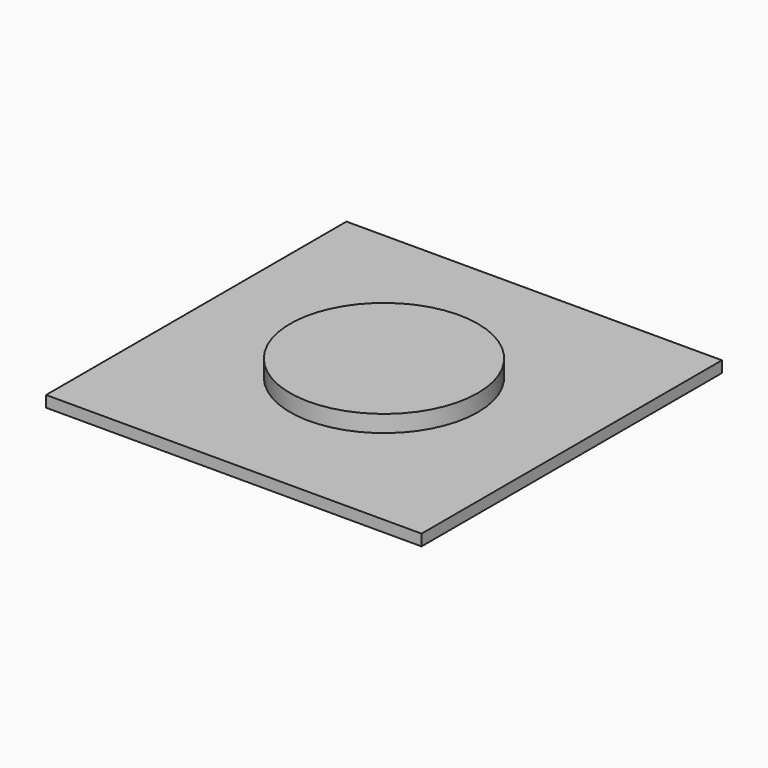
from build123d import *

# Parameters (mm, degrees)
F0_R     = 25
F1_DEPTH = 4.5
F2_R     = 19
F3_DEPTH = 4.5
F4_R     = 12.5
F5_DEPTH = 4.5
F7_START = 1
F6_W     = 100
F6_H     = 100
F7_DEPTH = 3
F9_START = 4
F8_R     = 25
F9_DEPTH = 4.5


with BuildPart() as f1:
    # F0 (on Top) → F1 (new body)
    with BuildSketch(Plane.XY):
        Circle(F0_R)
    extrude(amount=F1_DEPTH)

    # F2 (on face) → F3 (cut)
    with BuildSketch(Plane.XY.offset(4.5)):
        Circle(F2_R)
    extrude(amount=-F3_DEPTH, mode=Mode.SUBTRACT)


with BuildPart() as f5:
    # F4 (on Top) → F5 (new body)
    with BuildSketch(Plane.XY):
        Circle(F4_R)
    extrude(amount=F5_DEPTH)


with BuildPart() as f7:
    # F6 (on Top) → F7 (new body)
    with BuildSketch(Plane.XY.offset(F7_START)):
        Rectangle(F6_W, F6_H)
    extrude(amount=F7_DEPTH)


with BuildPart() as f9:
    # F8 (on Top) → F9 (new body)
    with BuildSketch(Plane.XY.offset(F9_START)):
        Circle(F8_R)
    extrude(amount=F9_DEPTH)


solid = Compound([f1.part, f5.part, f7.part, f9.part])
